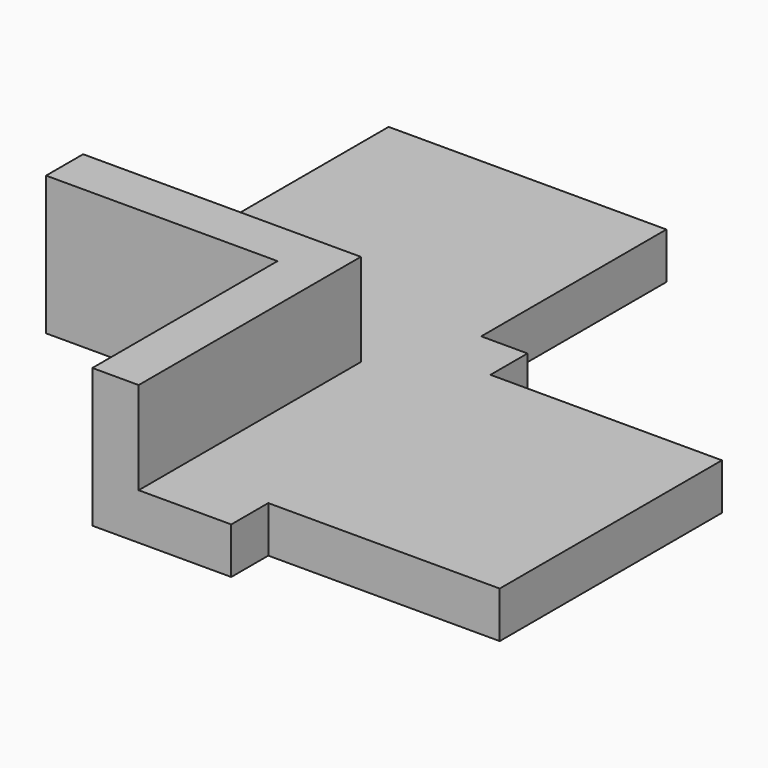
from build123d import *

# Parameters (mm, degrees)
F1_DEPTH = 20
F3_DEPTH = 40


with BuildPart() as f1:
    # F0 (on Top) → F1 (new body)
    with BuildSketch(Plane.XY):
        Polygon((-38.37838, 60), (-38.37838, 0), (61.62162, 0), (121.62162, 60), (101.62162, 60), (101.62162, 160), (-18.37838, 160), (-18.37838, 60), align=None)
        Polygon((121.62162, 60), (61.62162, 0), (61.62162, -100), (121.62162, -100), (121.62162, -80), (221.62162, -80), (221.62162, 40), (121.62162, 40), align=None)
    extrude(amount=F1_DEPTH)

    # F2 (on face) → F3 (join)
    with BuildSketch(Plane.XY.offset(20)):
        Polygon((-38.37838, 20), (-38.37838, 0), (61.62162, 0), (61.62162, -100), (81.62162, -100), (81.62162, 0), (81.62162, 20), align=None)
    extrude(amount=F3_DEPTH)


solid = f1.part
